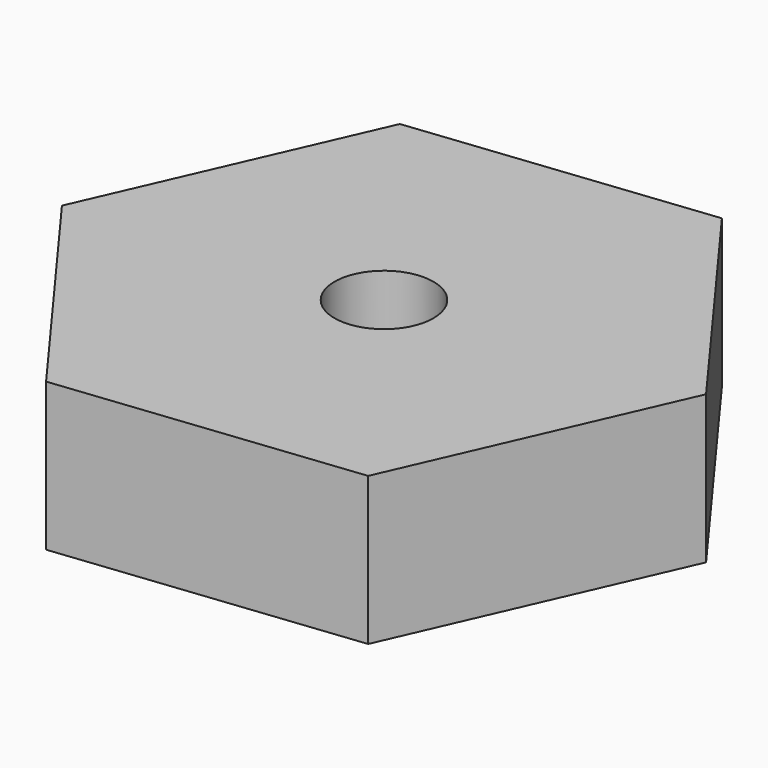
from build123d import *

# Parameters (mm, degrees)
F1_DEPTH = 4.7625
F2_R     = 1.591658
F3_DEPTH = 9.525


with BuildPart() as f1:
    # F0 (on Top) → F1 (new body)
    with BuildSketch(Plane.XY):
        Polygon((-9.525, -1.047767), (-3.855107, -8.772776), (5.669893, -7.725008), (9.525, 1.047767), (3.855107, 8.772776), (-5.669893, 7.725008), align=None)
    extrude(amount=F1_DEPTH)

    # F2 (on face) → F3 (cut)
    with BuildSketch(Plane.XY.offset(4.7625)):
        Circle(F2_R)
    extrude(amount=-F3_DEPTH, mode=Mode.SUBTRACT)


solid = f1.part
